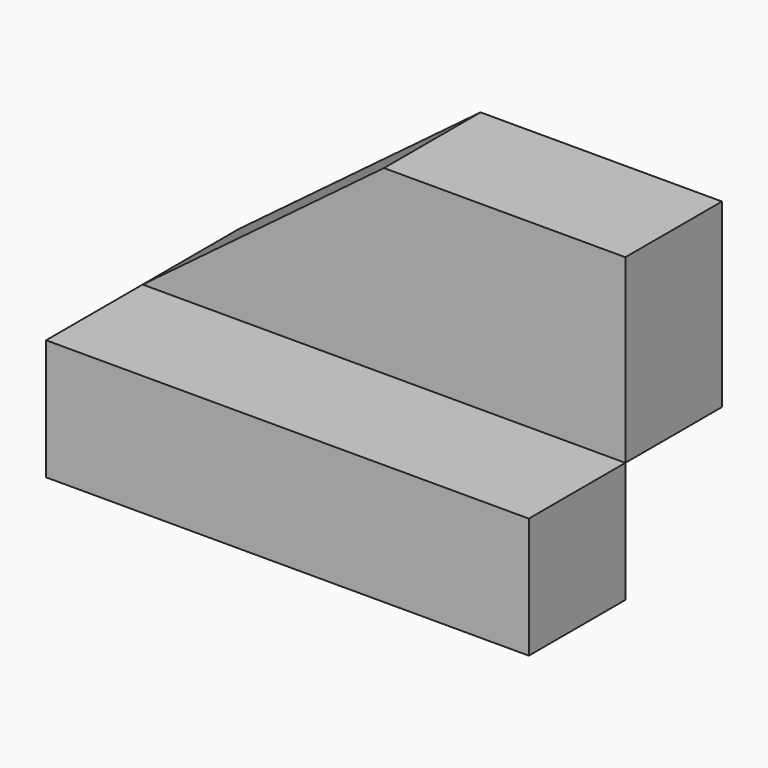
from build123d import *

# Parameters (mm, degrees)
F0_W     = 12.7
F0_H     = 12.7
F1_DEPTH = 50.8
F3_DEPTH = 12.7


with BuildPart() as f1:
    # F0 (on Right) → F1 (new body)
    with BuildSketch(Plane.YZ):
        with Locations((-38.422384, 32.319873)):
            Rectangle(F0_W, F0_H)
    extrude(amount=F1_DEPTH)


with BuildPart() as f3:
    # F2 (on face) → F3 (new body)
    with BuildSketch(Plane(origin=(0, -32.072384, 0), x_dir=(-1, 0, 0), z_dir=(0, 1, 0))):
        Polygon((-50.8, 57.719873), (-50.8, 38.669873), (0, 38.669873), (-25.4, 57.719873), align=None)
    extrude(amount=F3_DEPTH)


solid = Compound([f1.part, f3.part])
